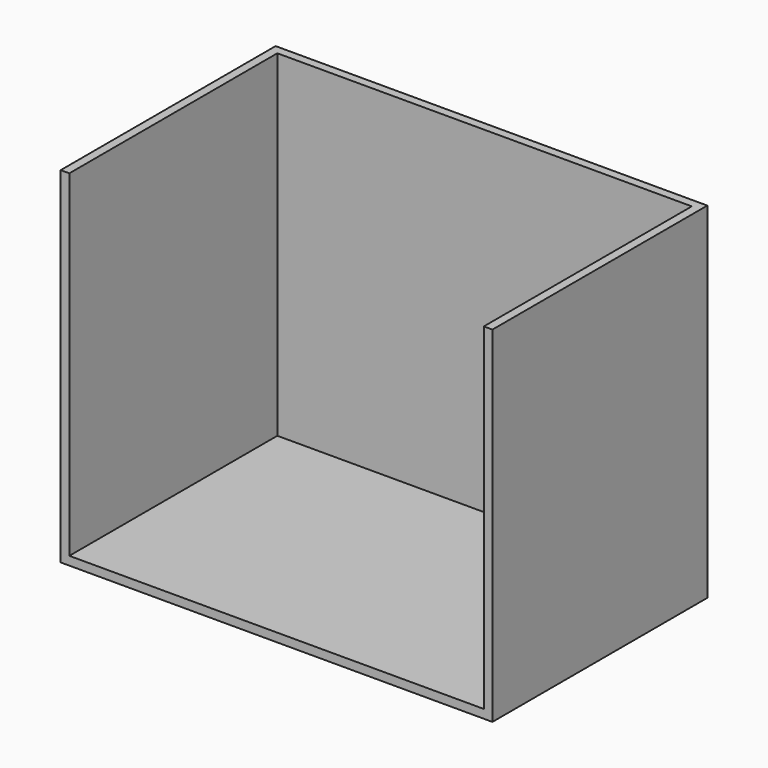
from build123d import *

# Parameters (mm, degrees)
F0_W     = 51.5153110027
F0_H     = 46.9279363751
F1_DEPTH = 560
F2_DEPTH = 900
F3_DEPTH = 720
F4_T     = -18


with BuildPart() as f1:
    # F0 (on Front) → F1 (new body)
    with BuildSketch(Plane.XZ):
        with Locations((25.7576555014, 23.4639681876)):
            Rectangle(F0_W, F0_H)
    extrude(amount=F1_DEPTH)

    # F2 (add): a face of the model
    f2_faces = [f1.faces().sort_by_distance(p)[0] for p in [
        (0, -280, 23.4639681876),
    ]]
    extrude(f2_faces, amount=-F2_DEPTH)

    # F3 (add): a face of the model
    f3_faces = [f1.faces().sort_by_distance(p)[0] for p in [
        (450, -280, 0),
    ]]
    extrude(f3_faces, amount=-F3_DEPTH)

    # F4
    f4_openings = [f1.faces().sort_by_distance(p)[0] for p in [
        (450, -560, 360),
        (450, -280, 720),
    ]]
    offset(amount=F4_T, openings=f4_openings)


solid = f1.part
